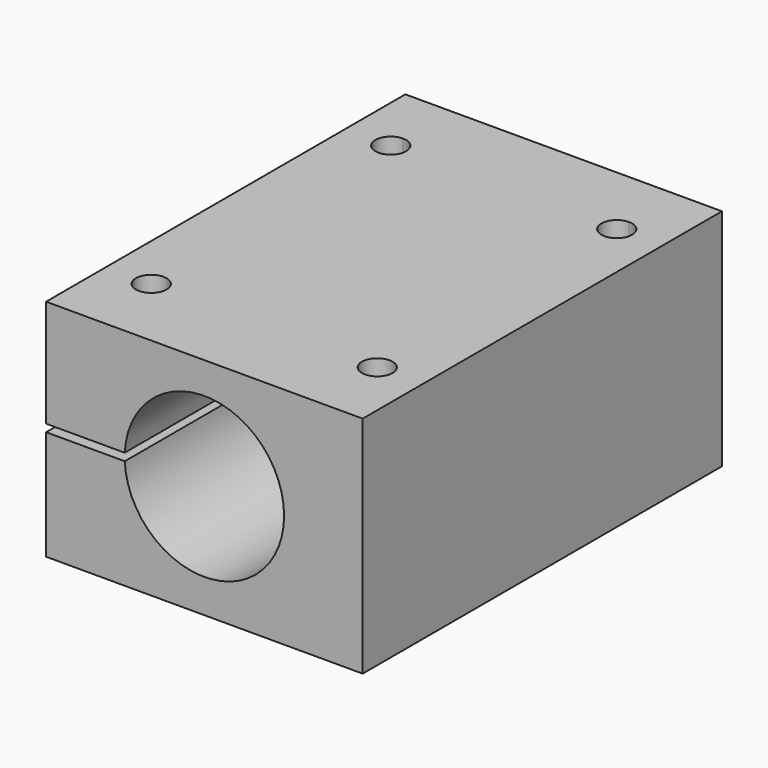
from build123d import *

# Parameters (mm, degrees)
F0_W     = 42.3
F0_H     = 30
F0_R     = 10.65
F1_DEPTH = 60
F3_DEPTH = 30
F4_R     = 3.55
F5_DEPTH = 4
F7_DEPTH = 60


with BuildPart() as f1:
    # F0 (on Front) → F1 (new body)
    with BuildSketch(Plane.XZ):
        with Locations((0, -0.15)):
            Rectangle(F0_W, F0_H)
        Circle(F0_R, mode=Mode.SUBTRACT)
    extrude(amount=F1_DEPTH)

    # F2 (on face) → F3 (cut)
    with BuildSketch(Plane(origin=(0, 0, -15.15), x_dir=(1, 0, 0), z_dir=(0, 0, -1))):
        with BuildLine():
            ThreePointArc((-15.1, 52.05), (-16.549569, 48.550431), (-13.05, 50))
            ThreePointArc((-13.05, 50), (-13.650431, 51.449569), (-15.1, 52.05))
        make_face()
        with BuildLine():
            ThreePointArc((15.1, 52.05), (13.650431, 48.550431), (17.15, 50))
            ThreePointArc((17.15, 50), (16.549569, 51.449569), (15.1, 52.05))
        make_face()
        with BuildLine():
            ThreePointArc((-15.1, 7.95), (-13.650431, 8.550431), (-13.05, 10))
            ThreePointArc((-13.05, 10), (-16.549569, 11.449569), (-15.1, 7.95))
        make_face()
        with BuildLine():
            ThreePointArc((15.1, 7.95), (16.549569, 8.550431), (17.15, 10))
            ThreePointArc((17.15, 10), (13.650431, 11.449569), (15.1, 7.95))
        make_face()
    extrude(amount=-F3_DEPTH, mode=Mode.SUBTRACT)

    # F4 (on face) → F5 (cut)
    with BuildSketch(Plane(origin=(0, 0, -15.15), x_dir=(1, 0, 0), z_dir=(0, 0, -1))):
        with Locations((-15.1, 50)):
            Circle(F4_R)
        with Locations((15.1, 50)):
            Circle(F4_R)
        with Locations((-15.1, 10)):
            Circle(F4_R)
        with Locations((15.1, 10)):
            Circle(F4_R)
    extrude(amount=-F5_DEPTH, mode=Mode.SUBTRACT)

    # F6 (on face) → F7 (cut)
    with BuildSketch(Plane(origin=(0, 0, 0), x_dir=(-1, 0, 0), z_dir=(0, 1, 0))):
        with BuildLine():
            Line((21.15, -0.5), (21.15, 0))
            Line((21.15, 0), (10.65, 0))
            ThreePointArc((10.65, 0), (10.647064, -0.250069), (10.638256, -0.5))
            Line((10.638256, -0.5), (21.15, -0.5))
        make_face()
        with BuildLine():
            Line((10.65, 0), (21.15, 0))
            Line((21.15, 0), (21.15, 0.5))
            Line((21.15, 0.5), (10.638256, 0.5))
            ThreePointArc((10.638256, 0.5), (10.647064, 0.250069), (10.65, 0))
        make_face()
    extrude(amount=-F7_DEPTH, mode=Mode.SUBTRACT)


solid = f1.part
